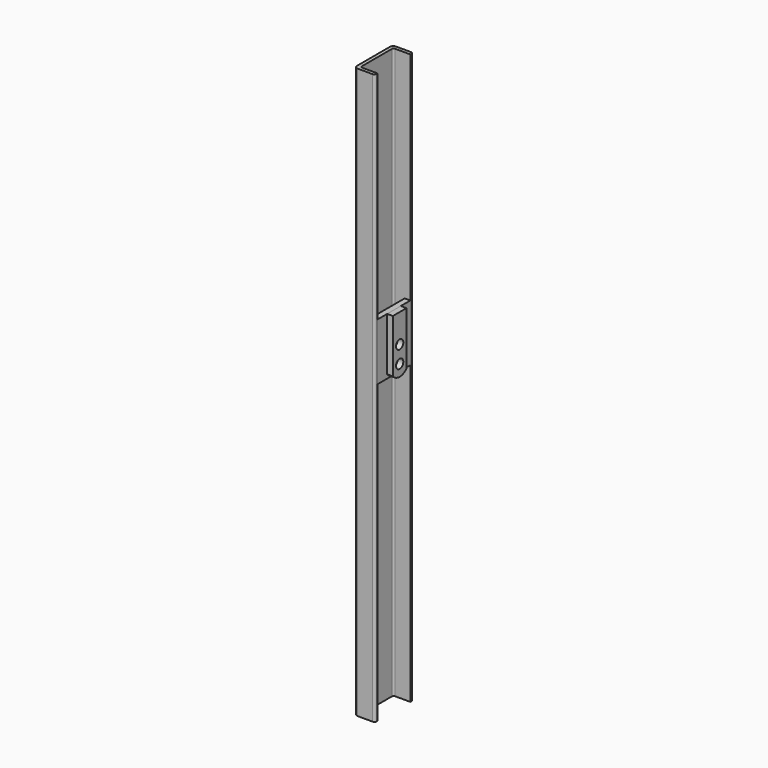
from build123d import *

# Parameters (mm, degrees)
F1_DEPTH = 500
F2_W     = 36
F2_H     = 50
F2_R     = 3
F3_DEPTH = 5
F4_R     = 4
F5_DEPTH = 5


with BuildPart() as f1:
    # F0 (on Top) → F1 (new body)
    with BuildSketch(Plane.XY):
        with BuildLine():
            ThreePointArc((9, 19), (8.414214, 20.414214), (7, 21))
            Line((7, 21), (-6, 21))
            ThreePointArc((-6, 21), (-8.12132, 20.12132), (-9, 18))
            Line((-9, 18), (-9, -18))
            ThreePointArc((-9, -18), (-8.12132, -20.12132), (-6, -21))
            Line((-6, -21), (7, -21))
            ThreePointArc((7, -21), (8.414214, -20.414214), (9, -19))
            Line((9, -19), (9, -18))
            Line((9, -18), (-4.5, -18))
            ThreePointArc((-4.5, -18), (-5.56066, -17.56066), (-6, -16.5))
            Line((-6, -16.5), (-6, 16.5))
            ThreePointArc((-6, 16.5), (-5.56066, 17.56066), (-4.5, 18))
            Line((-4.5, 18), (9, 18))
            Line((9, 18), (9, 19))
        make_face()
    extrude(amount=F1_DEPTH)


with BuildPart() as f3:
    # F2 (on face) → F3 (new body)
    with BuildSketch(Plane.YZ.offset(9)):
        with Locations((0, 285)):
            Rectangle(F2_W, F2_H)
        with Locations((0, 270)):
            Circle(F2_R, mode=Mode.SUBTRACT)
        with Locations((0, 285)):
            Circle(F2_R, mode=Mode.SUBTRACT)
    extrude(amount=-F3_DEPTH)


with BuildPart() as f5:
    # F4 (on face) → F5 (new body)
    with BuildSketch(Plane.YZ.offset(9)):
        with BuildLine():
            Line((7.5, 310), (-7.5, 310))
            Line((-7.5, 310), (-7.5, 263.385622))
            ThreePointArc((-7.5, 263.385622), (0, 260), (7.5, 263.385622))
            Line((7.5, 263.385622), (7.5, 310))
        make_face()
        with Locations((0, 270)):
            Circle(F4_R, mode=Mode.SUBTRACT)
        with Locations((0, 285)):
            Circle(F4_R, mode=Mode.SUBTRACT)
    extrude(amount=F5_DEPTH)


solid = Compound([f1.part, f3.part, f5.part])
